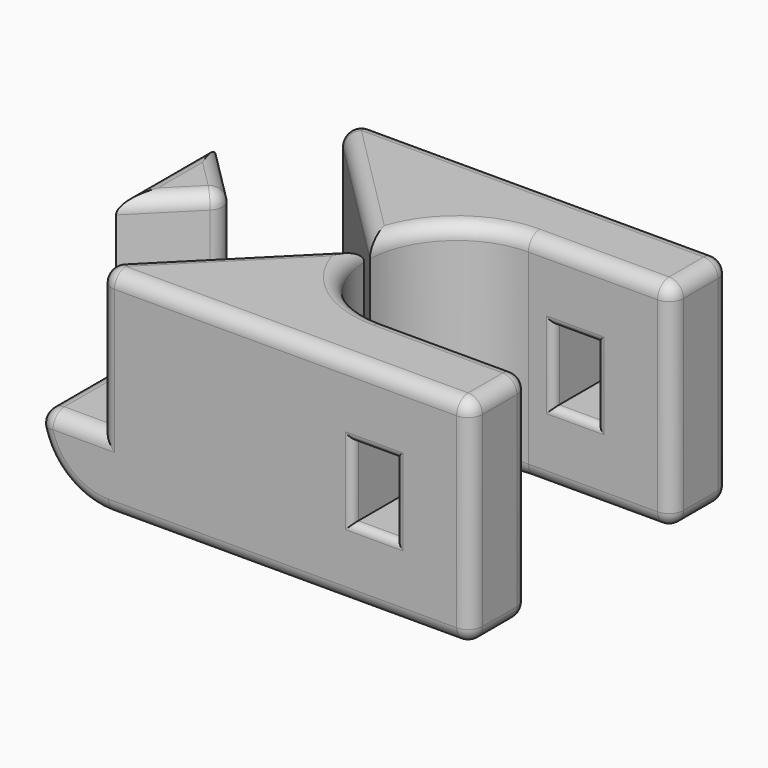
from build123d import *

# Parameters (mm, degrees)
PAD_DEPTH       = 15
POCKET_DEPTH    = 10
FILLET_R        = 5
SKETCH002_W     = 3
SKETCH002_H     = 5
POCKET001_DEPTH = 22.501
FILLET001_R     = 1
FILLET002_R     = 0.5


with BuildPart() as part:
    # Sketch → Pad (new body)
    with BuildSketch(Plane.XY):
        with BuildLine():
            ThreePointArc((20.25, 17.5), (14, 11.25), (20.25, 5))
            Line((30.25, 5), (20.25, 5))
            Line((30.25, 0), (30.25, 5))
            Line((0, 0), (30.25, 0))
            Line((0, 22.5), (0, 0))
            Line((30.25, 22.5), (0, 22.5))
            Line((30.25, 17.5), (30.25, 22.5))
            Line((20.25, 17.5), (30.25, 17.5))
        make_face()
    extrude(amount=PAD_DEPTH)

    # Sketch001 (on Face10 of Pad) → Pocket (cut)
    with BuildSketch(Plane.XY.offset(15)):
        Polygon((-0.75, 16.35), (-0.75, 26.25), (14.25, 11.25), (-0.75, -3.75), (-0.75, 6.15), (4.35, 11.25), align=None)
    extrude(amount=-POCKET_DEPTH, mode=Mode.SUBTRACT)

    # Fillet
    fillet_edges = [part.edges().sort_by_distance(p)[0] for p in [
        (0, 11.25, 0),
    ]]
    fillet(fillet_edges, radius=FILLET_R)

    # Sketch002 (on Face2 of Fillet) → Pocket001 (cut, through all)
    with BuildSketch(Plane.XZ):
        with Locations((23.5, 7.5)):
            Rectangle(SKETCH002_W, SKETCH002_H)
    extrude(amount=-POCKET001_DEPTH, mode=Mode.SUBTRACT)

    # Fillet001
    fillet001_edges = [part.edges().sort_by_distance(p)[0] for p in [
        (17.625, 22.5, 0),
        (30.25, 22.5, 7.5),
        (30.25, 17.5, 7.5),
        (30.25, 20, 0),
        (30.25, 20, 15),
        (25.25, 17.5, 0),
        (14, 11.25, 0),
        (25.25, 5, 0),
        (30.25, 5, 7.5),
        (30.25, 2.5, 0),
        (30.25, 0, 7.5),
        (30.25, 2.5, 15),
        (17.625, 0, 0),
        (16.625, 0, 15),
        (16.625, 22.5, 15),
        (15.918137, 6.744729, 15),
        (15.918137, 15.755271, 15),
        (25.25, 17.5, 15),
        (25.25, 5, 15),
        (8.502406, 16.997594, 15),
        (8.502406, 5.502406, 15),
        (4.35, 11.25, 10),
        (2.175, 13.425, 15),
        (0, 11.25, 15),
        (3, 22.5, 10),
        (3, 0, 10),
        (0, 3.45, 5),
        (1.5, 0, 5),
        (2.175, 9.075, 15),
        (1.5, 22.5, 5),
        (0, 19.05, 5),
    ]]
    fillet(fillet001_edges, radius=FILLET001_R)

    # Fillet002
    fillet002_edges = [part.edges().sort_by_distance(p)[0] for p in [
        (23.5, 22.5, 10),
        (22, 22.5, 7.5),
        (23.5, 22.5, 5),
        (25, 22.5, 7.5),
        (25, 5, 7.5),
        (23.5, 5, 10),
        (22, 5, 7.5),
        (23.5, 5, 5),
        (23.5, 17.5, 10),
        (22, 17.5, 7.5),
        (23.5, 17.5, 5),
        (25, 17.5, 7.5),
        (23.5, 0, 10),
        (22, 0, 7.5),
        (23.5, 0, 5),
        (25, 0, 7.5),
    ]]
    fillet(fillet002_edges, radius=FILLET002_R)


solid = part.part
